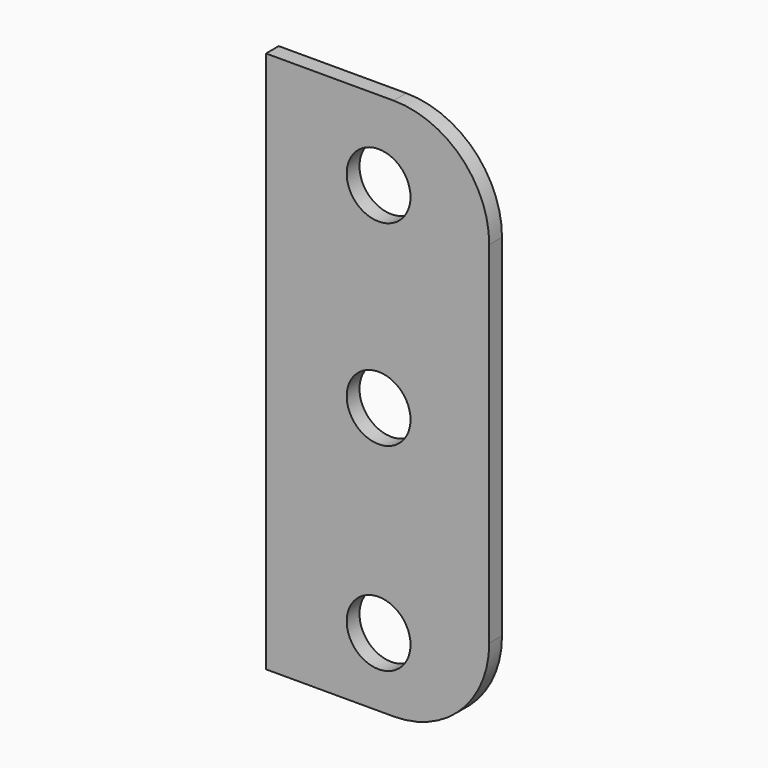
from build123d import *

# Parameters (mm, degrees)
F0_R     = 2
F1_DEPTH = 1


with BuildPart() as f1:
    # F0 (on Front) → F1 (new body)
    with BuildSketch(Plane.XZ):
        with BuildLine():
            Line((-30.187501, 20.062501), (-30.187501, -13.937499))
            Line((-30.187501, -13.937499), (-22.187501, -13.937499))
            ThreePointArc((-22.187501, -13.937499), (-17.94486, -12.18014), (-16.187501, -7.937499))
            Line((-16.187501, -7.937499), (-16.187501, 14.062501))
            ThreePointArc((-16.187501, 14.062501), (-17.94486, 18.305141), (-22.187501, 20.062501))
            Line((-22.187501, 20.062501), (-30.187501, 20.062501))
        make_face()
        with Locations((-23.125804, -9.637499)):
            Circle(F0_R, mode=Mode.SUBTRACT)
        with Locations((-23.125804, 2.785767)):
            Circle(F0_R, mode=Mode.SUBTRACT)
        with Locations((-23.125804, 15.079059)):
            Circle(F0_R, mode=Mode.SUBTRACT)
    extrude(amount=F1_DEPTH)


solid = f1.part
